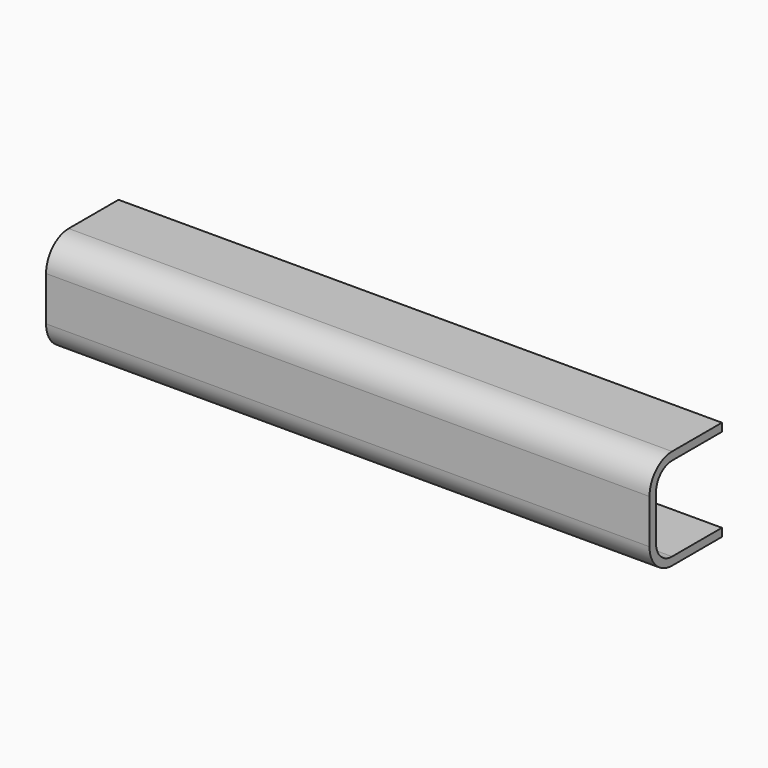
from build123d import *

# Parameters (mm, degrees)
F1_DEPTH = 600


with BuildPart() as f1:
    # F0 (on Right) → F1 (new body)
    with BuildSketch(Plane.YZ):
        with BuildLine():
            Line((90, 42), (90, 50))
            Line((90, 50), (28, 50))
            ThreePointArc((28, 50), (8.20101, 41.79899), (0, 22))
            Line((0, 22), (0, -22))
            ThreePointArc((0, -22), (8.20101, -41.79899), (28, -50))
            Line((28, -50), (90, -50))
            Line((90, -50), (90, -42))
            Line((90, -42), (28, -42))
            ThreePointArc((28, -42), (13.857864, -36.142136), (8, -22))
            Line((8, -22), (8, 22))
            ThreePointArc((8, 22), (13.857864, 36.142136), (28, 42))
            Line((28, 42), (90, 42))
        make_face()
    extrude(amount=F1_DEPTH)


solid = f1.part
